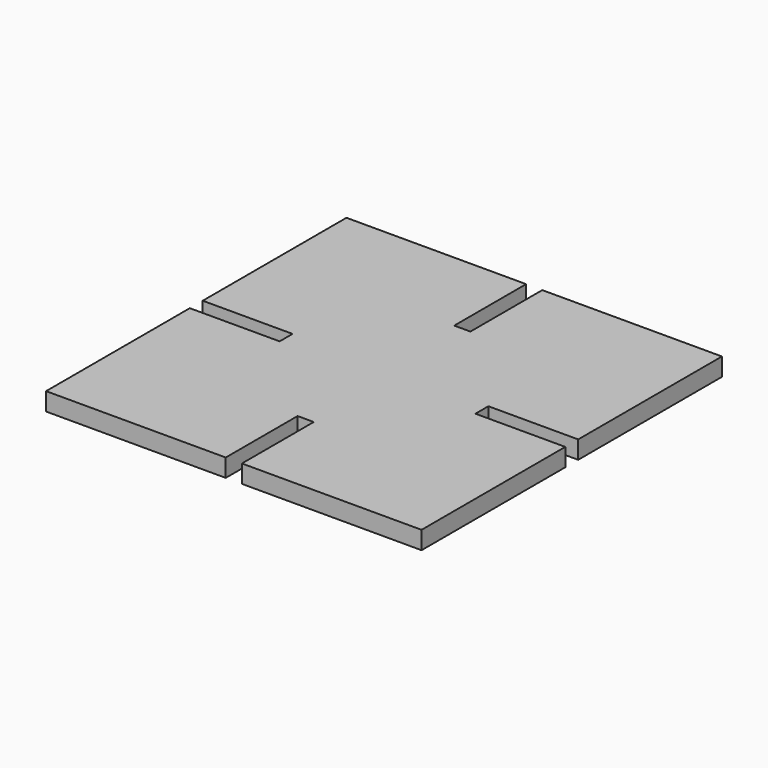
from build123d import *

# Parameters (mm, degrees)
PAD_DEPTH = 3


with BuildPart() as part:
    # Sketch → Pad (new body)
    with BuildSketch(Plane.XY):
        Polygon((1.35, 31.35), (31.35, 31.35), (31.35, 1.35), (16.35, 1.35), (16.35, -1.35), (31.35, -1.35), (31.35, -31.35), (1.35, -31.35), (1.35, -16.35), (-1.35, -16.35), (-1.35, -31.35), (-31.35, -31.35), (-31.35, -1.35), (-16.35, -1.35), (-16.35, 1.35), (-31.35, 1.35), (-31.35, 31.35), (-1.35, 31.35), (-1.35, 16.35), (1.35, 16.35), align=None)
    extrude(amount=PAD_DEPTH)


solid = part.part
